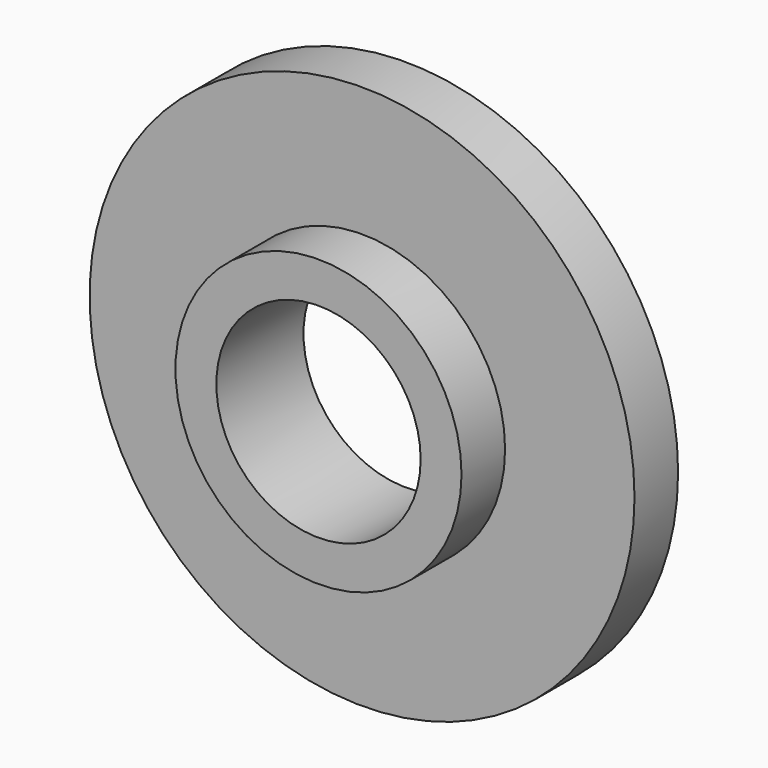
from build123d import *

# Parameters (mm, degrees)
F0_R     = 10
F0_R_2   = 5.25
F0_R_3   = 3.75
F1_DEPTH = 2
F2_DEPTH = 4


with BuildPart() as f1:
    # F0 (on Front) → F1 (new body)
    with BuildSketch(Plane.XZ):
        Circle(F0_R)
        Circle(F0_R_2, mode=Mode.SUBTRACT)
        Circle(F0_R_2)
        Circle(F0_R_3, mode=Mode.SUBTRACT)
    extrude(amount=F1_DEPTH)

    # F0 (on Front) → F2 (join)
    with BuildSketch(Plane.XZ):
        Circle(F0_R_2)
        Circle(F0_R_3, mode=Mode.SUBTRACT)
    extrude(amount=F2_DEPTH)


solid = f1.part
